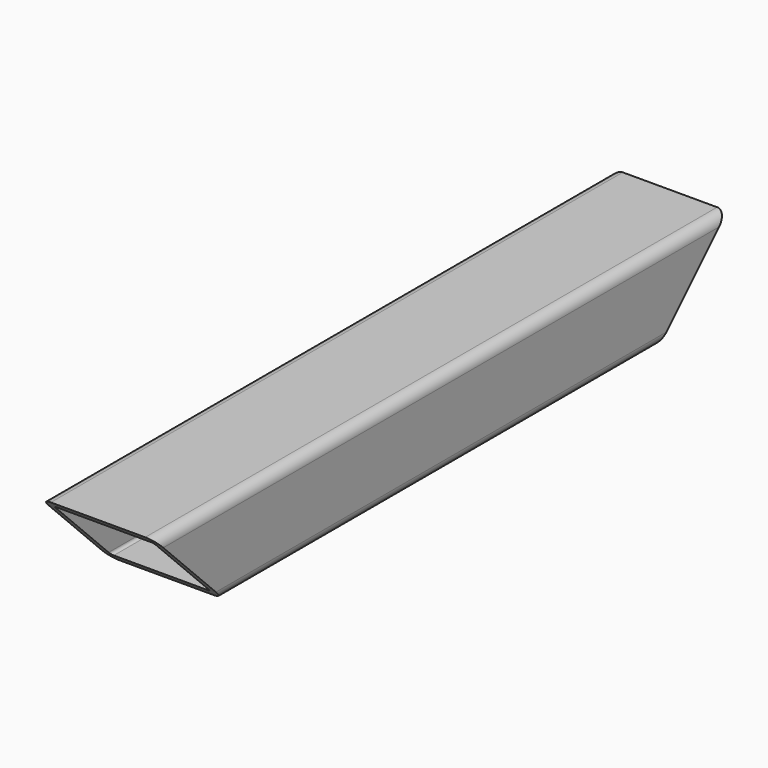
from build123d import *

# Parameters (mm, degrees)
F1_DEPTH = 250
F3_DEPTH = 200


with BuildPart() as f1:
    # F0 (on Front) → F1 (new body, symmetric)
    with BuildSketch(Plane.XZ):
        with BuildLine():
            ThreePointArc((40, 23), (37.9497474683, 27.9497474683), (33, 30))
            Line((33, 30), (-33, 30))
            ThreePointArc((-33, 30), (-37.9497474683, 27.9497474683), (-40, 23))
            Line((-40, 23), (-40, -23))
            ThreePointArc((-40, -23), (-37.9497474683, -27.9497474683), (-33, -30))
            Line((-33, -30), (33, -30))
            ThreePointArc((33, -30), (37.9497474683, -27.9497474683), (40, -23))
            Line((40, -23), (40, 23))
        make_face()
        with BuildLine():
            Line((-33, 25), (33, 25))
            ThreePointArc((33, 25), (34.4142135624, 24.4142135624), (35, 23))
            Line((35, 23), (35, -23))
            ThreePointArc((35, -23), (34.4142135624, -24.4142135624), (33, -25))
            Line((33, -25), (-33, -25))
            ThreePointArc((-33, -25), (-34.4142135624, -24.4142135624), (-35, -23))
            Line((-35, -23), (-35, 23))
            ThreePointArc((-35, 23), (-34.4142135624, 24.4142135624), (-33, 25))
        make_face(mode=Mode.SUBTRACT)
    extrude(amount=F1_DEPTH, both=True)

    # F2 (on face) → F3 (cut)
    with BuildSketch(Plane(origin=(-40, 0, 0), x_dir=(0, -1, 0), z_dir=(-1, 0, 0))):
        Polygon((-250, -30), (-190, -30), (-197, -23), (-250, -23), align=None)
        Polygon((-250, -23), (-197, -23), (-243, 23), (-250, 23), align=None)
        Polygon((-250, 23), (-243, 23), (-250, 30), align=None)
        Polygon((243, 23), (197, -23), (250, -23), (250, 23), align=None)
        Polygon((250, -23), (197, -23), (190, -30), (250, -30), align=None)
        Polygon((250, 30), (243, 23), (250, 23), align=None)
    extrude(amount=-F3_DEPTH, mode=Mode.SUBTRACT)


solid = f1.part
